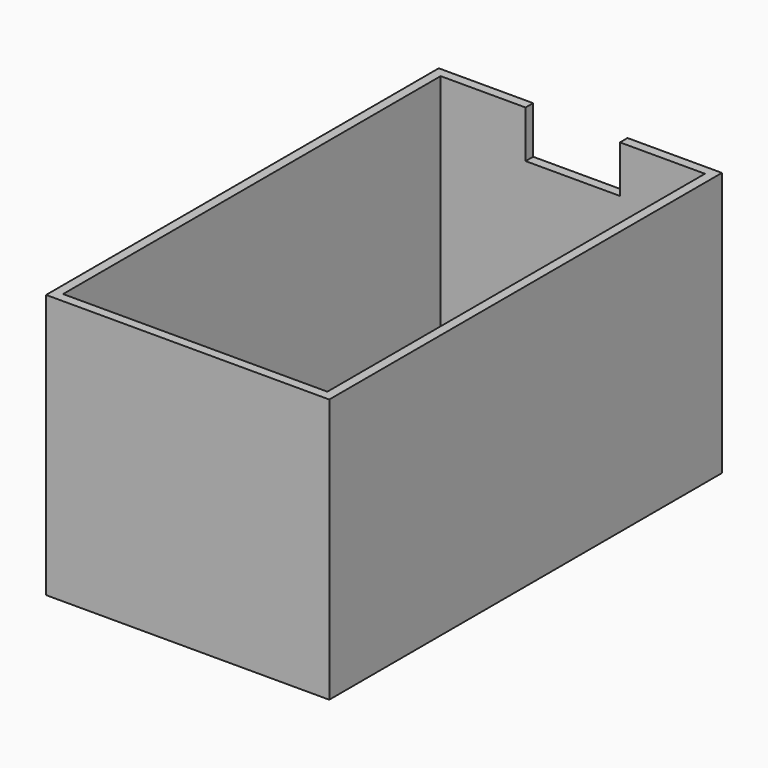
from build123d import *

# Parameters (mm, degrees)
F0_W     = 381
F0_H     = 660.4
F0_W_2   = 355.6
F0_H_2   = 635
F1_DEPTH = 355.6
F2_DEPTH = 25.4
F3_W     = 76.2
F3_H     = 127
F4_DEPTH = 25.4
F5_W     = 127
F5_H     = 127
F6_DEPTH = 25.4


with BuildPart() as f1:
    # F0 (on Top) → F1 (new body)
    with BuildSketch(Plane.XY):
        Rectangle(F0_W, F0_H)
        Rectangle(F0_W_2, F0_H_2, mode=Mode.SUBTRACT)
    extrude(amount=F1_DEPTH)

    # F0 (on Top) → F2 (join)
    with BuildSketch(Plane.XY):
        Rectangle(F0_W_2, F0_H_2)
    extrude(amount=F2_DEPTH)

    # F3 (on face) → F4 (cut)
    with BuildSketch(Plane.XY):
        with Locations((-38.1, 143.031146)):
            Rectangle(F3_W, F3_H)
        with Locations((38.1, 143.031146)):
            Rectangle(F3_W, F3_H)
    extrude(amount=F4_DEPTH, mode=Mode.SUBTRACT)

    # F5 (on face) → F6 (cut)
    with BuildSketch(Plane(origin=(0, 330.2, 0), x_dir=(-1, 0, 0), z_dir=(0, 1, 0))):
        with Locations((0, 355.6)):
            Rectangle(F5_W, F5_H)
    extrude(amount=-F6_DEPTH, mode=Mode.SUBTRACT)


solid = f1.part
